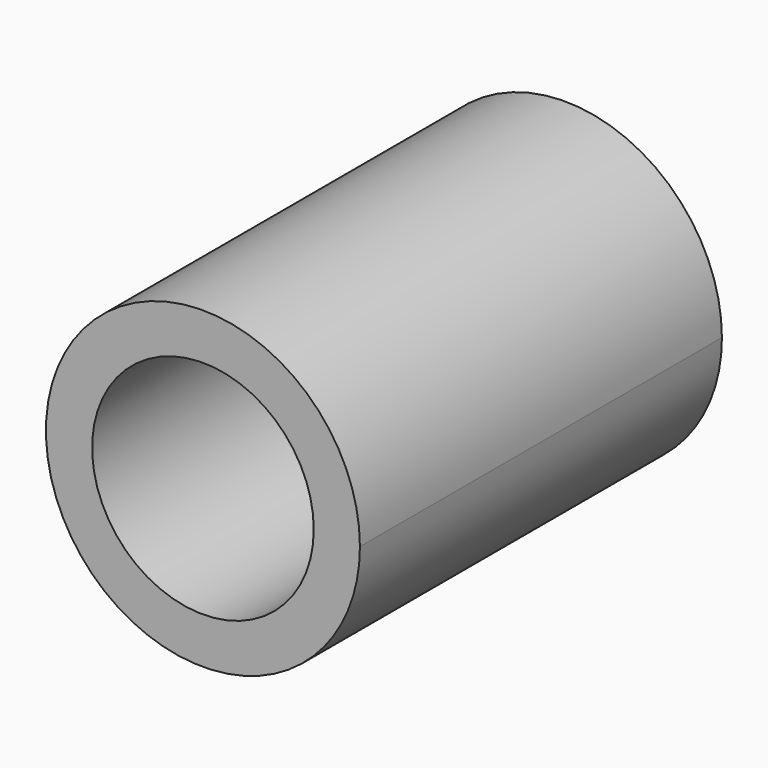
from build123d import *

# Parameters (mm, degrees)
F0_R     = 300
F1_DEPTH = 1225


with BuildPart() as f1:
    # F0 (on Front) → F1 (new body)
    with BuildSketch(Plane.XZ):
        with BuildLine():
            ThreePointArc((300.520382, 300.520382), (392.648801, 438.400305), (425, 601.040764))
            ThreePointArc((425, 601.040764), (-162.640458, 993.689566), (-300.520383, 300.520383))
            ThreePointArc((-300.520383, 300.520383), (-1e-06, 176.040764), (300.520382, 300.520382))
        make_face()
        with Locations((0, 601.040764)):
            Circle(F0_R, mode=Mode.SUBTRACT)
    extrude(amount=F1_DEPTH)


solid = f1.part
